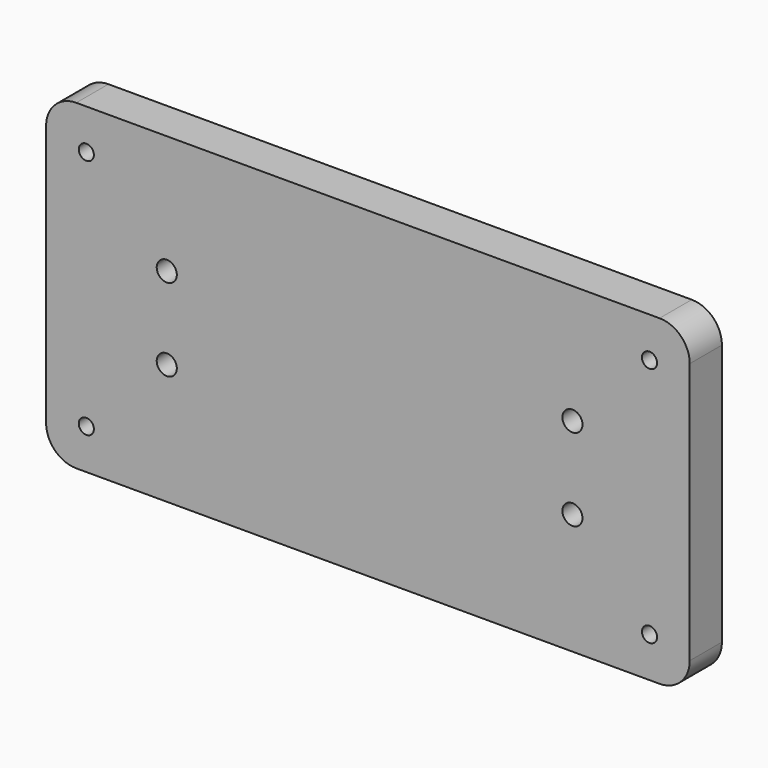
from build123d import *

# Parameters (mm, degrees)
F0_W     = 203.2
F0_H     = 101.6
F1_DEPTH = 12.7
F2_R     = 9.525
F4_D     = 4.7752
F6_D     = 6.35


with BuildPart() as f1:
    # F0 (on Front) → F1 (new body)
    with BuildSketch(Plane.XZ):
        with Locations((1.704352, 1.243852)):
            Rectangle(F0_W, F0_H)
    extrude(amount=F1_DEPTH)

    # F2
    f2_edges = [f1.edges().sort_by_distance(p)[0] for p in [
        (-99.895648, -6.35, 52.043852),
        (103.304352, -6.35, 52.043852),
        (103.304352, -6.35, -49.556148),
        (-99.895648, -6.35, -49.556148),
    ]]
    fillet(f2_edges, radius=F2_R)

    # F4 (through all)
    with Locations(Plane.XZ.offset(12.7)):
        with Locations((-87.195648, -36.856148), (-87.195648, 39.343852), (90.604352, 39.343852), (90.604352, -36.856148)):
            Hole(F4_D / 2)

    # F6 (through all)
    with Locations(Plane.XZ.offset(12.7)):
        with Locations((-61.795648, 14.544754), (-61.795648, -11.456148), (66.270806, -11.456148), (66.270806, 14.544754)):
            Hole(F6_D / 2)


solid = f1.part
